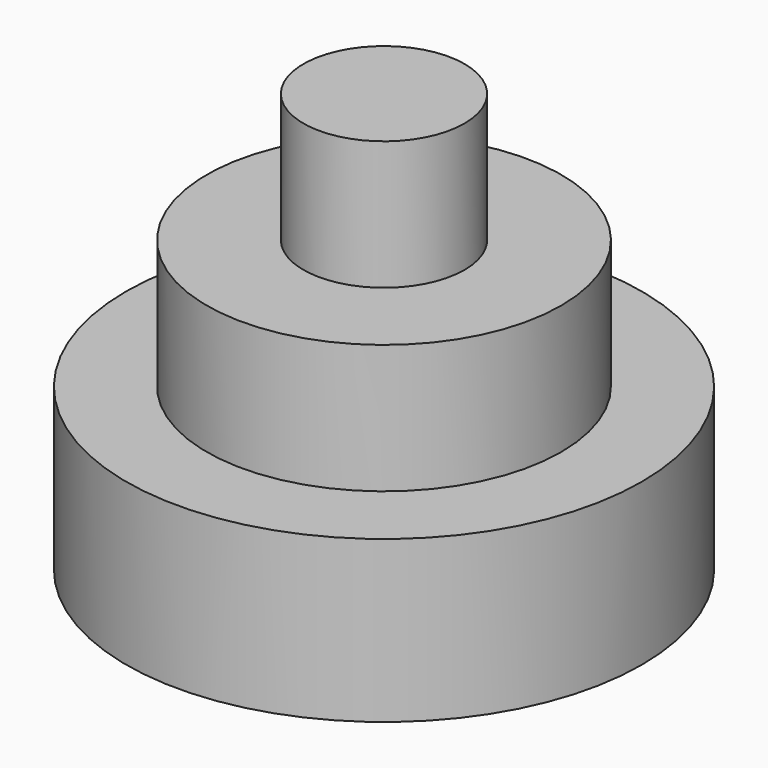
from build123d import *

# Parameters (mm, degrees)
F0_R     = 800
F1_DEPTH = 500
F2_R     = 550
F3_DEPTH = 400
F4_R     = 250
F5_DEPTH = 400


with BuildPart() as f1:
    # F0 (on Top) → F1 (new body)
    with BuildSketch(Plane.XY):
        Circle(F0_R)
    extrude(amount=F1_DEPTH)


with BuildPart() as f3:
    # F2 (on face) → F3 (new body)
    with BuildSketch(Plane.XY.offset(500)):
        Circle(F2_R)
    extrude(amount=F3_DEPTH)

    # F4 (on face) → F5 (join)
    with BuildSketch(Plane.XY.offset(900)):
        Circle(F4_R)
    extrude(amount=F5_DEPTH)


solid = Compound([f1.part, f3.part])
